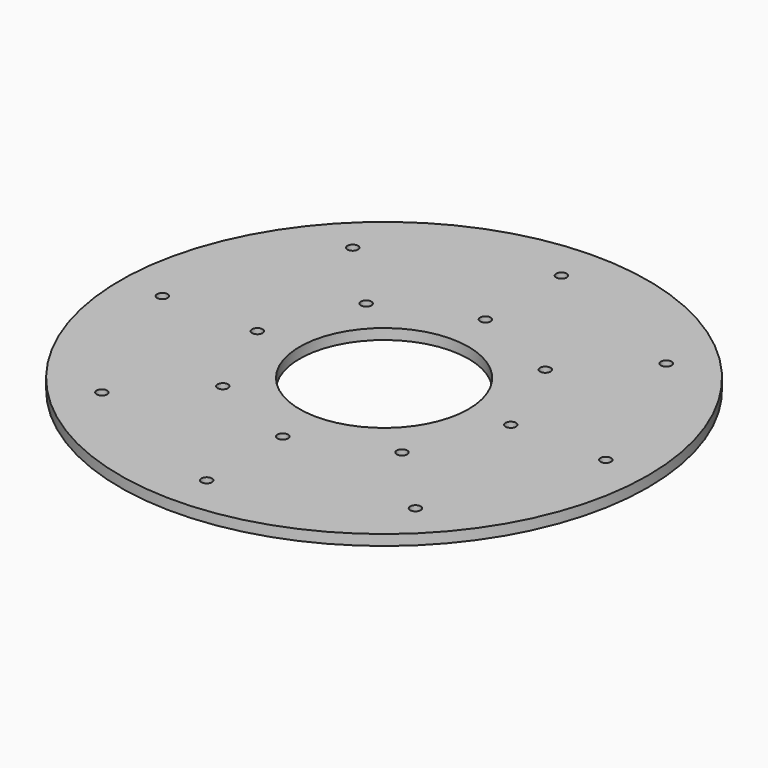
from build123d import *

# Parameters (mm, degrees)
SKETCH_R           = 50
SKETCH_R_2         = 16
PAD_DEPTH          = 2
SKETCH001_R        = 1
POCKET_DEPTH       = 282.871995
POCKET_DEPTH_BACK  = 284.871995
POLARPATTERN_COUNT = 8


with BuildPart() as part:
    # Sketch → Pad (new body)
    with BuildSketch(Plane.XY):
        Circle(SKETCH_R)
        Circle(SKETCH_R_2, mode=Mode.SUBTRACT)
    extrude(amount=PAD_DEPTH)

    # Sketch001 → Pocket (cut, two sides)
    with BuildSketch(Plane.XY) as pocket_sk:
        with Locations((24, 0)):
            Circle(SKETCH001_R)
        with Locations((42, 0)):
            Circle(SKETCH001_R)
    pocket = extrude(amount=-POCKET_DEPTH, mode=Mode.SUBTRACT) + extrude(pocket_sk.sketch, amount=POCKET_DEPTH_BACK, mode=Mode.SUBTRACT)

    # PolarPattern: Pocket ×8 about axis
    polarpattern_axis = Axis((0, 0, 0), (0, 0, 1))
    for i in range(1, POLARPATTERN_COUNT):
        add(pocket.rotate(polarpattern_axis, i * 360 / POLARPATTERN_COUNT), mode=Mode.SUBTRACT)


solid = part.part
